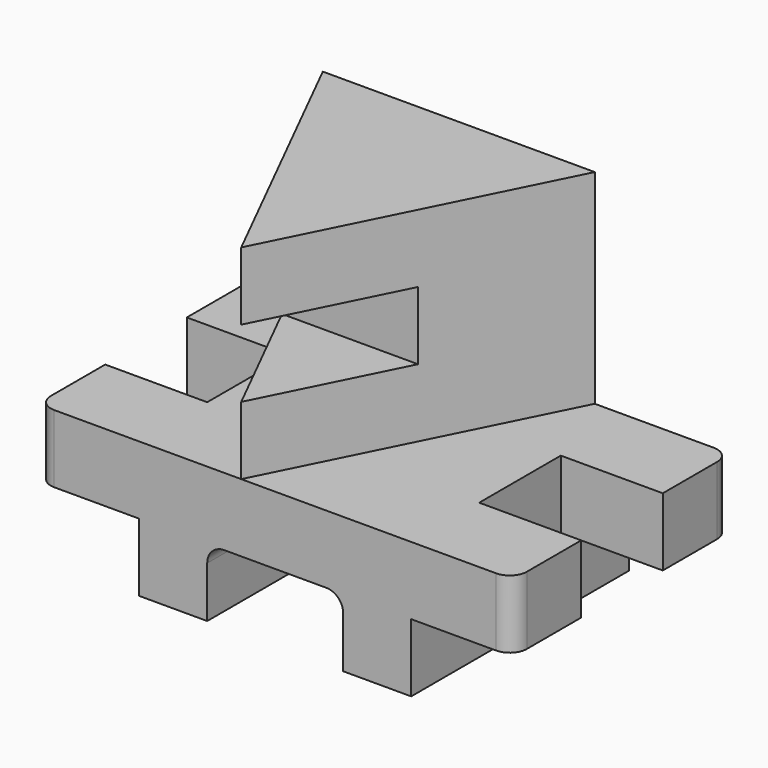
from build123d import *

# Parameters (mm, degrees)
F1_DEPTH  = 101.6
F2_W      = 38.1
F2_H      = 25.4
F3_DEPTH  = 38.1
F4_W      = 38.1
F4_H      = 25.4
F5_DEPTH  = 38.1
F6_R      = 6.35
F7_W      = 50.8
F7_H      = 25.4
F8_DEPTH  = 101.601
F9_R      = 6.35
F10_W     = 101.6
F10_H     = 101.6
F11_DEPTH = 76.2
F13_DEPTH = 76.2
F15_START = -25.4
F15_DEPTH = 25.4


with BuildPart() as f1:
    # F0 (on Front) → F1 (new body)
    with BuildSketch(Plane.XZ):
        Polygon((0, 25.4), (0, 0), (101.6, 0), (101.6, 25.4), (139.7, 25.4), (139.7, 50.8), (-38.1, 50.8), (-38.1, 25.4), align=None)
    extrude(amount=F1_DEPTH)

    # F2 (on face) → F3 (cut)
    with BuildSketch(Plane.YZ.offset(139.7)):
        with Locations((-50.8, 38.1)):
            Rectangle(F2_W, F2_H)
    extrude(amount=-F3_DEPTH, mode=Mode.SUBTRACT)

    # F4 (on face) → F5 (cut)
    with BuildSketch(Plane(origin=(-38.1, 0, 0), x_dir=(0, -1, 0), z_dir=(-1, 0, 0))):
        with Locations((50.8, 38.1)):
            Rectangle(F4_W, F4_H)
    extrude(amount=-F5_DEPTH, mode=Mode.SUBTRACT)

    # F6
    f6_edges = [f1.edges().sort_by_distance(p)[0] for p in [
        (139.7, -101.6, 38.1),
        (139.7, 0, 38.1),
        (-38.1, -101.6, 38.1),
        (-38.1, 0, 38.1),
    ]]
    fillet(f6_edges, radius=F6_R)

    # F7 (on face) → F8 (cut, through all)
    with BuildSketch(Plane.XZ.offset(101.6)):
        with Locations((50.8, 12.7)):
            Rectangle(F7_W, F7_H)
    extrude(amount=-F8_DEPTH, mode=Mode.SUBTRACT)

    # F9
    f9_edges = [f1.edges().sort_by_distance(p)[0] for p in [
        (25.4, -50.8, 25.4),
        (76.2, -50.8, 25.4),
    ]]
    fillet(f9_edges, radius=F9_R)

    # F10 (on face) → F11 (join)
    with BuildSketch(Plane.XY.offset(50.8)):
        with Locations((38.1, -50.8)):
            Rectangle(F10_W, F10_H)
    extrude(amount=F11_DEPTH)

    # F12 (on face) → F13 (cut)
    with BuildSketch(Plane.XY.offset(127)):
        Polygon((88.9, 0), (38.1, -101.6), (88.9, -101.6), align=None)
        Polygon((38.1, -101.6), (-12.7, 0), (-12.7, -101.6), align=None)
    extrude(amount=-F13_DEPTH, mode=Mode.SUBTRACT)

    # F14 (on face) → F15 (cut)
    with BuildSketch(Plane.XY.offset(127).offset(F15_START)):
        Polygon((63.5, -50.8), (12.7, -50.8), (38.1, -101.6), align=None)
    extrude(amount=-F15_DEPTH, mode=Mode.SUBTRACT)


solid = f1.part
